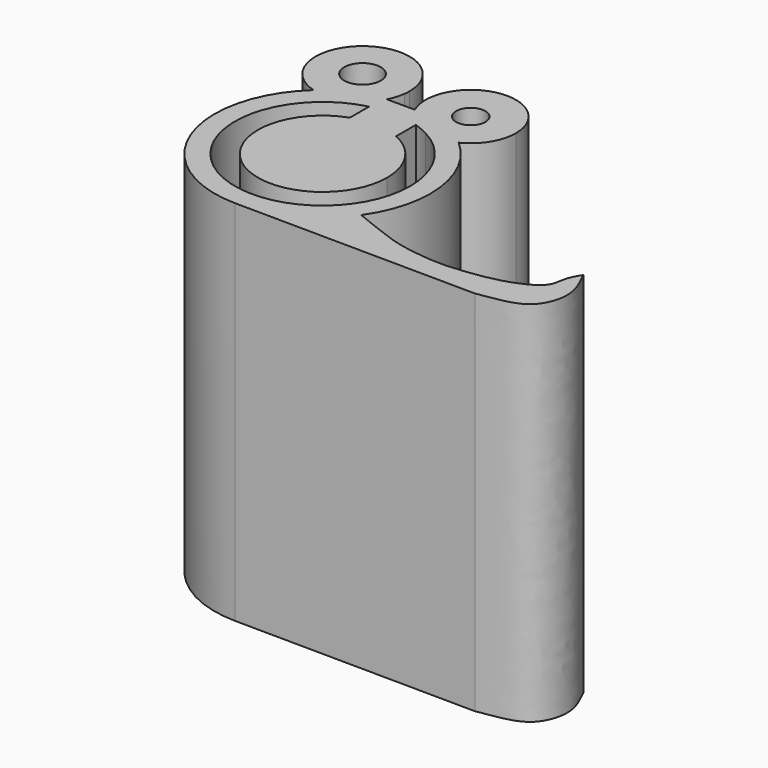
from build123d import *

# Parameters (mm, degrees)
F1_DEPTH = 80.01


with BuildPart() as f1:
    # F0 (on Top) → F1 (new body)
    with BuildSketch(Plane.XY):
        with BuildLine():
            ThreePointArc((-52.0181724305, 39.4095291981), (-51.9576561565, 40.0496439589), (-51.9374574868, 40.6922956066))
            ThreePointArc((-51.9374574868, 40.6922956066), (-68.346740432, 48.8523585987), (-64.9508257487, 30.8435008261))
            ThreePointArc((-64.9508257487, 30.8435008261), (-58.1184104532, 31.2953658368), (-53.1003625737, 35.9542580053))
            ThreePointArc((-53.1003625737, 35.9542580053), (-52.4052375143, 37.6336514449), (-52.0181724305, 39.4095291981))
        make_face()
        with BuildLine():
            ThreePointArc((-58.1941987012, 40.6922956066), (-58.2476999322, 40.0421660606), (-58.4067640965, 39.4095291981))
            ThreePointArc((-58.4067640965, 39.4095291981), (-66.0943613472, 41.3424251525), (-58.1941987012, 40.6922956066))
        make_face(mode=Mode.SUBTRACT)
        with BuildLine():
            ThreePointArc((-53.1003625737, 35.9542580053), (-58.1184104532, 31.2953658368), (-64.9508257487, 30.8435008261))
            ThreePointArc((-64.9508257487, 30.8435008261), (-71.0530970633, 5.1094793368), (-49.3361916364, -9.9853408308))
            ThreePointArc((-49.3361916364, -9.9853408308), (-38.3858948602, -7.3909049304), (-29.8997519532, 0))
            ThreePointArc((-29.8997519532, 0), (-25.7978316087, 16.2774443926), (-33.6100307457, 31.1351188778))
            ThreePointArc((-33.6100307457, 31.1351188778), (-36.8058711165, 30.1677726155), (-40.1411486067, 30.3261346384))
            ThreePointArc((-40.1411486067, 30.3261346384), (-32.7630206932, 23.3103643966), (-30.0455065973, 13.4984878823))
            ThreePointArc((-30.0455065973, 13.4984878823), (-60.8364931775, -1.5486798035), (-53.788710164, 31.9898184416))
            ThreePointArc((-53.788710164, 31.9898184416), (-48.5632811871, 32.5626024415), (-43.3799688199, 31.6871240532))
            ThreePointArc((-43.3799688199, 31.6871240532), (-45.5036090688, 33.5569434788), (-47.0065913216, 35.9542580053))
            Line((-47.0065913216, 35.9542580053), (-53.1003625737, 35.9542580053))
        make_face()
        with BuildLine():
            ThreePointArc((-29.8997519532, 0), (-38.3858948602, -7.3909049304), (-49.3361916364, -9.9853408308))
            Line((-49.3361916364, -9.9853408308), (3.2553945492, -10.4746920389))
            add(Edge.make_bspline(
                [(3.2553945492, -10.4746920389), (6.7725717344, -9.8207747634), (14.1786098266, -9.4323508669), (16.9026280052, 0.2286933526), (14.1061528831, 4.5015575397), (13.3681874722, 6.3572456129)],
                knots=[0, 0, 0, 0, 0.2950154938, 0.5574011727, 0.7978396153, 0.7978396153, 0.7978396153, 0.7978396153], degree=3))
            add(Edge.make_bspline(
                [(13.3681874722, 6.3572456129), (11.2107009371, 3.3907004664), (12.783682015, -0.4484184196), (6.7198718752, -3.0864083593), (3.824606613, -3.9195654149)],
                knots=[0, 0, 0, 0, 0.1402226837, 0.2938290091, 0.2938290091, 0.2938290091, 0.2938290091], degree=3))
            add(Edge.make_bspline(
                [(3.824606613, -3.9195654149), (1.041154088, -4.7205466376), (-3.5627301285, -5.2600412779), (-8.5742747125, -5.7629574016), (-16.8940584015, -4.8756628828), (-22.6225553896, -2.945389447), (-27.3635536713, -1.014278557), (-29.8997519532, 0)],
                knots=[0.2938290091, 0.2938290091, 0.2938290091, 0.2938290091, 0.441503186, 0.5626049111, 0.7155603519, 0.8496584077, 1, 1, 1, 1], degree=3))
        make_face()
        with BuildLine():
            ThreePointArc((-47.8431273342, 39.9222357019), (-47.6317197983, 37.8946361667), (-47.0065913216, 35.9542580053))
            ThreePointArc((-47.0065913216, 35.9542580053), (-45.5036090688, 33.5569434788), (-43.3799688199, 31.6871240532))
            ThreePointArc((-43.3799688199, 31.6871240532), (-41.7291546645, 31.0813632615), (-40.1411486067, 30.3261346384))
            ThreePointArc((-40.1411486067, 30.3261346384), (-36.8058711165, 30.1677726155), (-33.6100307457, 31.1351188778))
            ThreePointArc((-33.6100307457, 31.1351188778), (-29.6505897586, 34.7588262655), (-28.1851099211, 39.9222357019))
            ThreePointArc((-28.1851099211, 39.9222357019), (-38.0141186277, 49.7512444085), (-47.8431273342, 39.9222357019))
        make_face()
        with BuildLine():
            ThreePointArc((-34.8145098579, 39.9222357019), (-38.0141186277, 36.7226269322), (-41.2137273974, 39.9222357019))
            ThreePointArc((-41.2137273974, 39.9222357019), (-38.0141186277, 43.1218444717), (-34.8145098579, 39.9222357019))
        make_face(mode=Mode.SUBTRACT)
        with BuildLine():
            ThreePointArc((-35.0538748718, 13.4984878823), (-37.3175811218, 21.1501729283), (-43.3799688199, 26.3386317966))
            ThreePointArc((-43.3799688199, 26.3386317966), (-48.5435084418, 27.5505681179), (-53.788710164, 26.7639360781))
            ThreePointArc((-53.788710164, 26.7639360781), (-57.2447397838, 2.0206160275), (-35.0538748718, 13.4984878823))
        make_face()
        with BuildLine():
            Line((-43.3799688199, 26.3386317966), (-43.3799688199, 31.6871240532))
            ThreePointArc((-43.3799688199, 31.6871240532), (-48.5632811871, 32.5626024415), (-53.788710164, 31.9898184416))
            Line((-53.788710164, 31.9898184416), (-53.788710164, 26.7639360781))
            ThreePointArc((-53.788710164, 26.7639360781), (-48.5435084418, 27.5505681179), (-43.3799688199, 26.3386317966))
        make_face()
    extrude(amount=F1_DEPTH)


solid = f1.part
